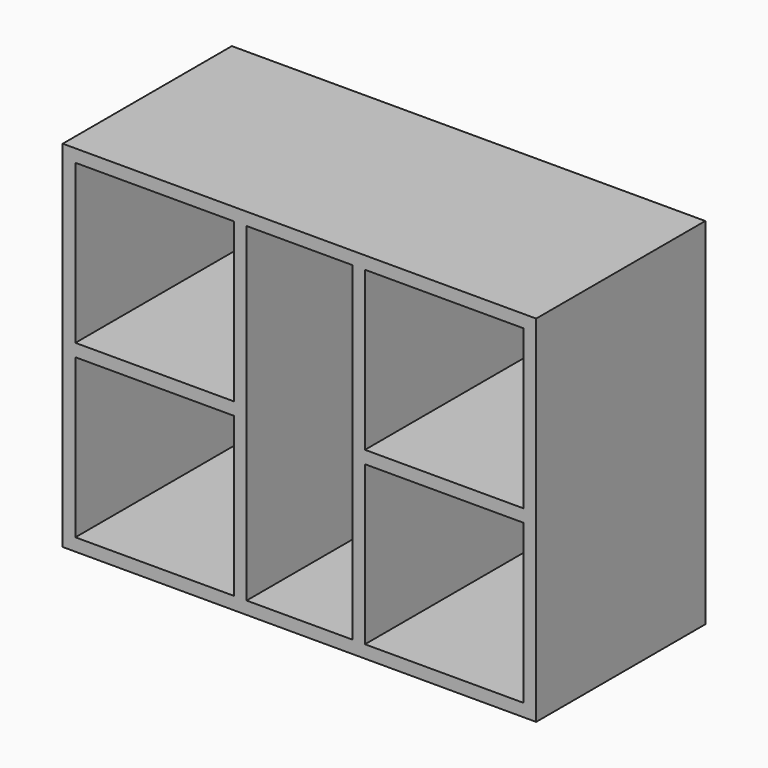
from build123d import *

# Parameters (mm, degrees)
F0_W     = 448
F0_H     = 336
F1_DEPTH = 200
F2_T     = -12
F3_W     = 150
F3_H     = 12
F4_DEPTH = 188


with BuildPart() as f1:
    # F0 (on Front) → F1 (new body)
    with BuildSketch(Plane.XZ):
        Rectangle(F0_W, F0_H)
    extrude(amount=-F1_DEPTH)

    # F2
    f2_openings = [f1.faces().sort_by_distance(p)[0] for p in [
        (0, 0, 0),
    ]]
    offset(amount=F2_T, openings=f2_openings)

    # F3 (on face) → F4 (join)
    with BuildSketch(Plane.XZ.offset(-188)):
        with Locations((-137, 0)):
            Rectangle(F3_W, F3_H)
        Polygon((-50, 156), (-62, 156), (-62, 6), (-62, -6), (-62, -156), (-50, -156), align=None)
        Polygon((62, 156), (50, 156), (50, -156), (62, -156), (62, -6), (62, 6), align=None)
        with Locations((137, 0)):
            Rectangle(F3_W, F3_H)
    extrude(amount=F4_DEPTH)


solid = f1.part
